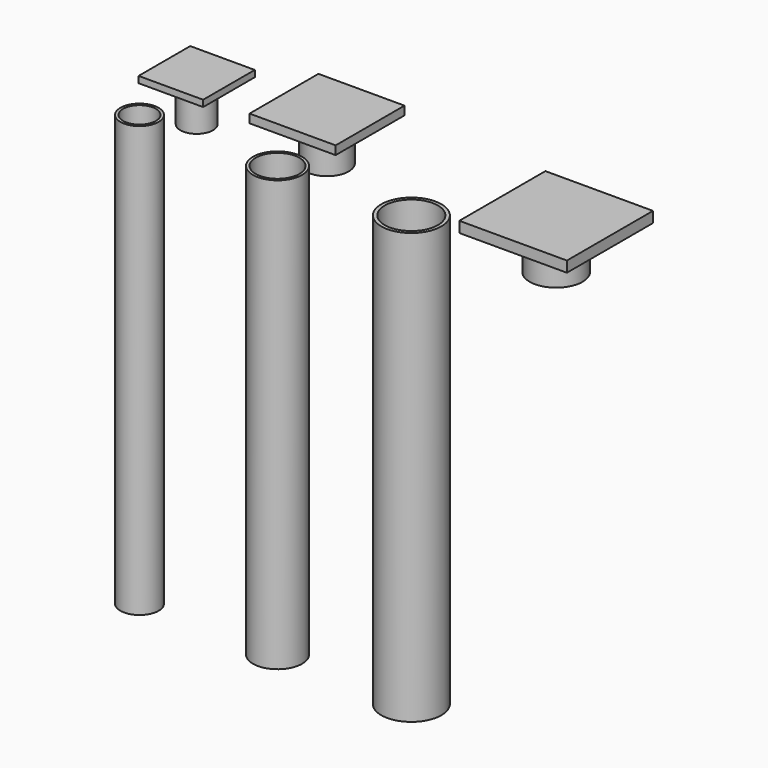
from build123d import *

# Parameters (mm, degrees)
F0_R      = 69.85
F0_R_2    = 61.85
F1_DEPTH  = 1000
F2_W      = 250
F2_H      = 250
F3_DEPTH  = 25
F4_R      = 57.15
F4_R_2    = 50.85
F5_DEPTH  = 1000
F6_W      = 200
F6_H      = 200
F7_DEPTH  = 20
F8_R      = 50.5
F8_R_2    = 44.2
F9_DEPTH  = 90
F10_R     = 61.5
F10_R_2   = 55.2
F11_DEPTH = 90
F12_R     = 44.45
F12_R_2   = 38.15
F13_DEPTH = 1000
F14_W     = 150
F14_H     = 150
F15_DEPTH = 15
F16_R     = 38
F16_R_2   = 31.7
F17_DEPTH = 90


with BuildPart() as f1:
    # F0 (on Top) → F1 (new body)
    with BuildSketch(Plane.XY):
        Circle(F0_R)
        Circle(F0_R_2, mode=Mode.SUBTRACT)
    extrude(amount=-F1_DEPTH)


with BuildPart() as f3:
    # F2 (on Top) → F3 (new body)
    with BuildSketch(Plane.XY):
        with Locations((236.45629, 125)):
            Rectangle(F2_W, F2_H)
    extrude(amount=F3_DEPTH)

    # F10 (on face) → F11 (join)
    with BuildSketch(Plane(origin=(0, 0, 0), x_dir=(1, 0, 0), z_dir=(0, 0, -1))):
        with Locations((236.45629, -125)):
            Circle(F10_R)
        with Locations((236.45629, -125)):
            Circle(F10_R_2, mode=Mode.SUBTRACT)
    extrude(amount=F11_DEPTH)


with BuildPart() as f5:
    # F4 (on Top) → F5 (new body)
    with BuildSketch(Plane.XY):
        with Locations((-310.924649, 0)):
            Circle(F4_R)
        with Locations((-310.924649, 0)):
            Circle(F4_R_2, mode=Mode.SUBTRACT)
    extrude(amount=-F5_DEPTH)


with BuildPart() as f7:
    # F6 (on Top) → F7 (new body)
    with BuildSketch(Plane.XY):
        with Locations((-354.897445, 198.709337)):
            Rectangle(F6_W, F6_H)
    extrude(amount=F7_DEPTH)

    # F8 (on face) → F9 (join)
    with BuildSketch(Plane(origin=(0, 0, 0), x_dir=(1, 0, 0), z_dir=(0, 0, -1))):
        with Locations((-354.897445, -198.709337)):
            Circle(F8_R)
        with Locations((-354.897445, -198.709337)):
            Circle(F8_R_2, mode=Mode.SUBTRACT)
    extrude(amount=F9_DEPTH)


with BuildPart() as f13:
    # F12 (on Top) → F13 (new body)
    with BuildSketch(Plane.XY):
        with Locations((-631.624103, 0)):
            Circle(F12_R)
        with Locations((-631.624103, 0)):
            Circle(F12_R_2, mode=Mode.SUBTRACT)
    extrude(amount=-F13_DEPTH)


with BuildPart() as f15:
    # F14 (on Top) → F15 (new body)
    with BuildSketch(Plane.XY):
        with Locations((-635.624337, 171.047796)):
            Rectangle(F14_W, F14_H)
    extrude(amount=F15_DEPTH)

    # F16 (on face) → F17 (join)
    with BuildSketch(Plane(origin=(0, 0, 0), x_dir=(1, 0, 0), z_dir=(0, 0, -1))):
        with Locations((-635.624337, -171.047796)):
            Circle(F16_R)
        with Locations((-635.624337, -171.047796)):
            Circle(F16_R_2, mode=Mode.SUBTRACT)
    extrude(amount=F17_DEPTH)


solid = Compound([f1.part, f3.part, f5.part, f7.part, f13.part, f15.part])
